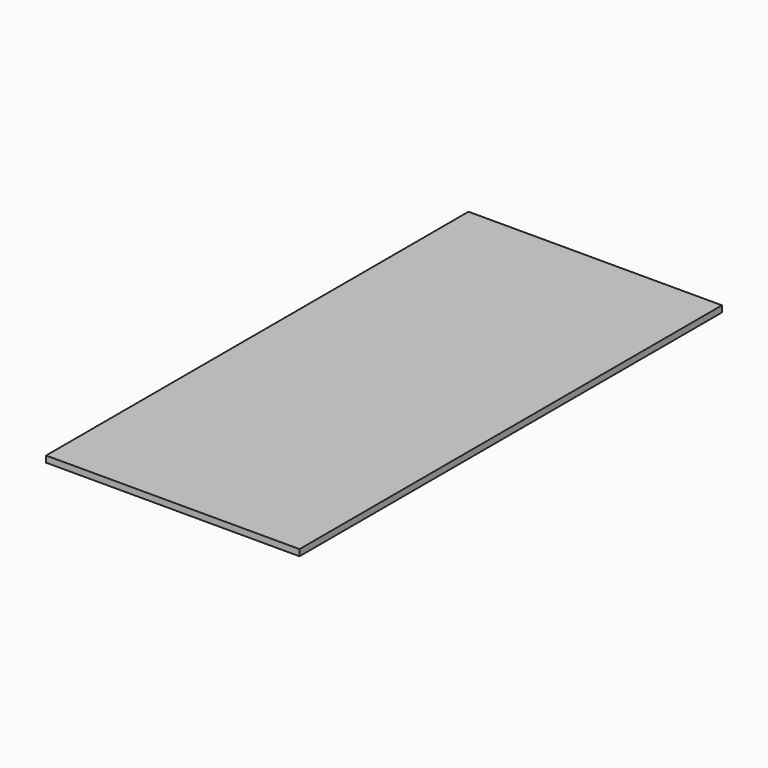
from build123d import *

# Parameters (mm, degrees)
SKETCH_W  = 240
SKETCH_H  = 500
PAD_DEPTH = 6


with BuildPart() as part:
    # Sketch → Pad (new body)
    with BuildSketch(Plane.XY):
        with Locations((120, 250)):
            Rectangle(SKETCH_W, SKETCH_H)
    extrude(amount=PAD_DEPTH)


solid = part.part
